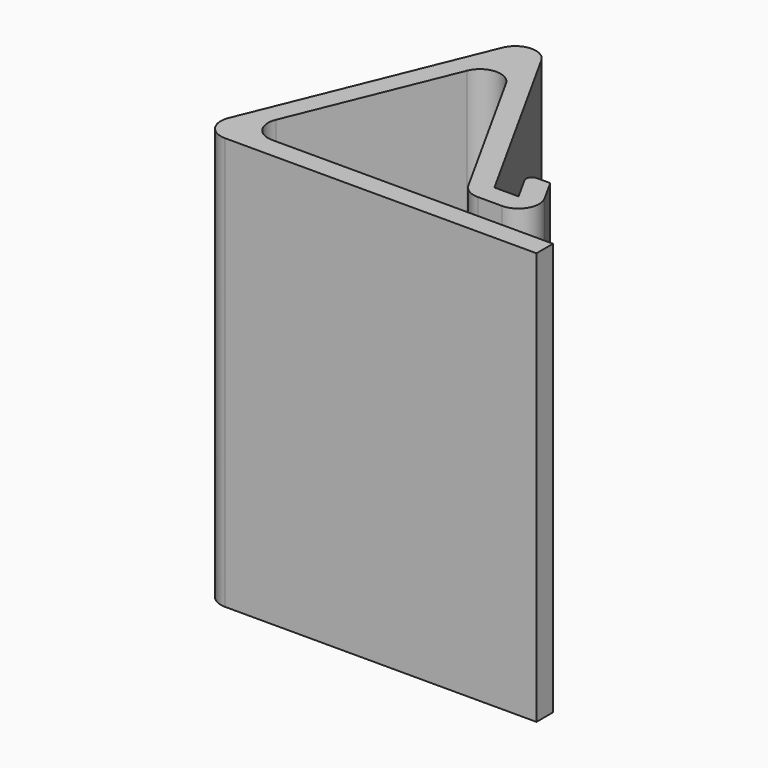
from build123d import *

# Parameters (mm, degrees)
F1_DEPTH = 127


with BuildPart() as f1:
    # F0 (on Top) → F1 (new body)
    with BuildSketch(Plane.XY):
        with BuildLine():
            Line((-37.970073, -44.747863), (57.945386, -44.747863))
            Line((57.945386, -44.747863), (57.945386, -38.397863))
            Line((57.945386, -38.397863), (-28.511538, -38.397863))
            ThreePointArc((-28.511538, -38.397863), (-33.78363, -35.587289), (-34.388761, -29.643545))
            Line((-34.388761, -29.643545), (-14.459294, 19.072933))
            ThreePointArc((-14.459294, 19.072933), (-8.955817, 23.007606), (-3.028102, 19.746914))
            Line((-3.028102, 19.746914), (23.109409, -27.411237))
            ThreePointArc((23.109409, -27.411237), (25.440391, -29.804212), (28.663378, -30.682937))
            Line((28.663378, -30.682937), (36.086988, -30.682937))
            ThreePointArc((36.086988, -30.682937), (41.558263, -27.555924), (41.640957, -21.254637))
            Line((41.640957, -21.254637), (37.705483, -14.154128))
            Line((37.705483, -14.154128), (33.58046, -14.154128))
            ThreePointArc((33.58046, -14.154128), (31.989218, -15.063575), (31.965168, -16.896214))
            Line((31.965168, -16.896214), (36.086988, -24.332937))
            Line((36.086988, -24.332937), (28.663378, -24.332937))
            Line((28.663378, -24.332937), (-3.89235, 34.405171))
            ThreePointArc((-3.89235, 34.405171), (-9.820065, 37.665863), (-15.323543, 33.73119))
            Line((-15.323543, 33.73119), (-43.847296, -35.993545))
            ThreePointArc((-43.847296, -35.993545), (-43.242165, -41.937289), (-37.970073, -44.747863))
        make_face()
    extrude(amount=F1_DEPTH)


solid = f1.part
